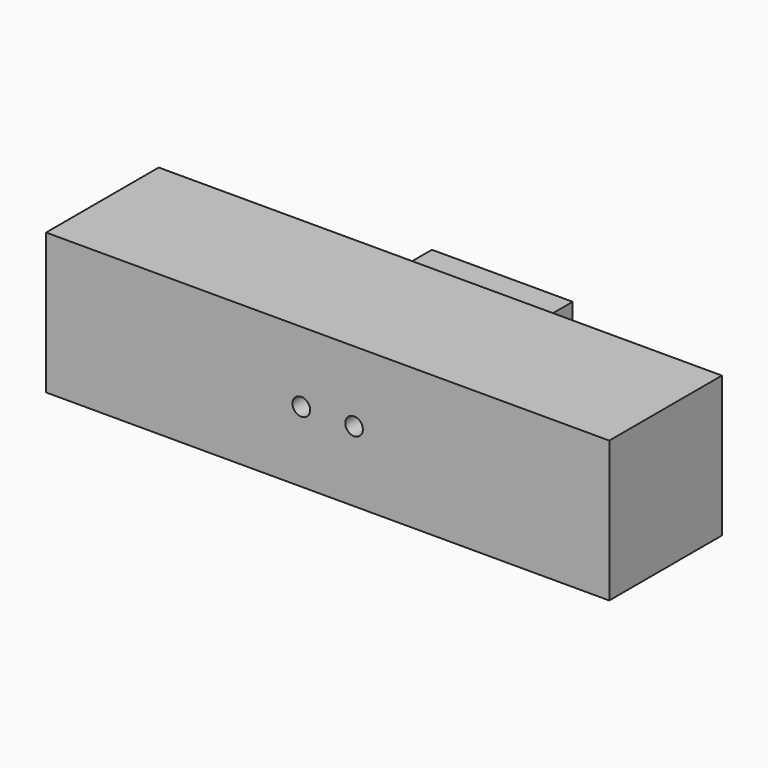
from build123d import *

# Parameters (mm, degrees)
F0_W     = 101.6
F0_H     = 25.4
F0_R     = 1.5875
F1_DEPTH = 25.4
F2_R     = 2.54
F3_DEPTH = 7.62
F4_W     = 25.4
F4_H     = 12.7
F5_DEPTH = 6.35
F6_DEPTH = 19.05


with BuildPart() as f1:
    # F0 (on Front) → F1 (new body)
    with BuildSketch(Plane.XZ):
        Rectangle(F0_W, F0_H)
        with Locations((-4.7625, 0)):
            Circle(F0_R, mode=Mode.SUBTRACT)
        with Locations((4.7625, 0)):
            Circle(F0_R, mode=Mode.SUBTRACT)
        with Locations((4.7625, 0)):
            Circle(F0_R)
        with Locations((-4.7625, 0)):
            Circle(F0_R)
    extrude(amount=-F1_DEPTH)

    # F2 (on face) → F3 (join)
    with BuildSketch(Plane(origin=(0, 25.4, 0), x_dir=(-1, 0, 0), z_dir=(0, 1, 0))):
        Circle(F2_R)
    extrude(amount=F3_DEPTH)

    # F4 (on face) → F5 (join)
    with BuildSketch(Plane(origin=(0, 33.02, 0), x_dir=(-1, 0, 0), z_dir=(0, 1, 0))):
        Rectangle(F4_W, F4_H)
    extrude(amount=F5_DEPTH)

    # F0 (on Front) → F6 (cut)
    with BuildSketch(Plane.XZ):
        with Locations((-4.7625, 0)):
            Circle(F0_R)
        with Locations((4.7625, 0)):
            Circle(F0_R)
    extrude(amount=-F6_DEPTH, mode=Mode.SUBTRACT)


solid = f1.part
